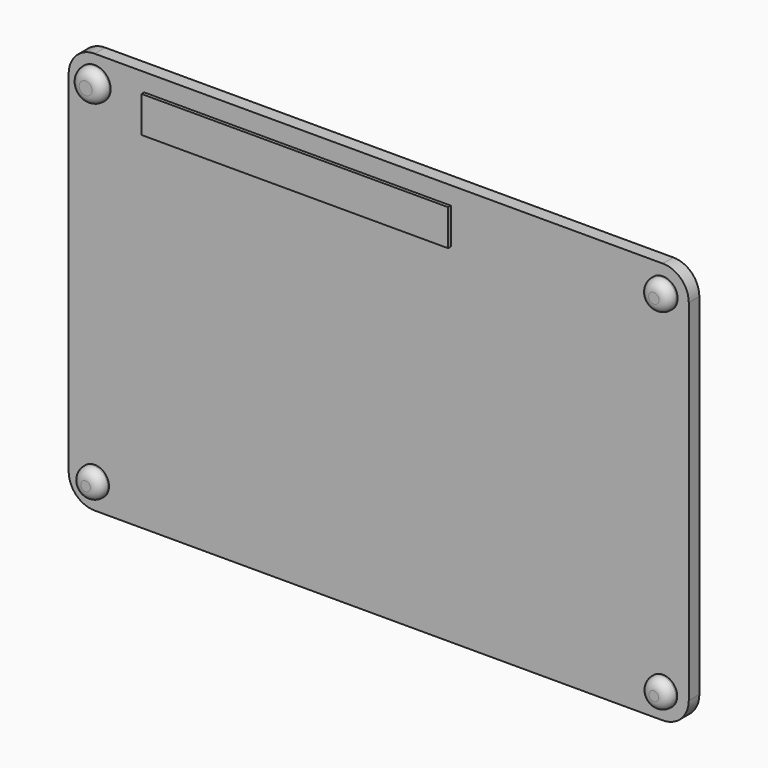
from build123d import *

# Parameters (mm, degrees)
F0_W     = 62.646739
F0_H     = 40.633425
F6_DEPTH = 1.33248
F1_R     = 2.621544
F2_R     = 1.49006
F2_R_2   = 1.453301
F2_R_3   = 1.619057
F2_R_4   = 1.451478
F3_DEPTH = 1.133365
F4_R     = 0.966379
F5_W     = 30.972634
F5_H     = 3.651396
F7_DEPTH = 0.337802


with BuildPart() as f6:
    # F0 (on Front) → F6 (new body)
    with BuildSketch(Plane.XZ):
        with Locations((-31.323369, 41.469335)):
            Rectangle(F0_W, F0_H)
    extrude(amount=F6_DEPTH)

    # F1
    f1_edges = [f6.edges().sort_by_distance(p)[0] for p in [
        (-62.646739, -0.66624, 21.152623),
        (-62.646739, -0.66624, 61.786048),
        (0, -0.66624, 61.786048),
        (0, -0.66624, 21.152623),
    ]]
    fillet(f1_edges, radius=F1_R)

    # F2 (on face) → F3 (join)
    with BuildSketch(Plane.XZ.offset(1.33248)):
        with Locations((-2.621544, 59.164504)):
            Circle(F2_R)
        with Locations((-60.025195, 23.774167)):
            Circle(F2_R_2)
        with Locations((-60.025195, 59.164504)):
            Circle(F2_R_3)
        with Locations((-2.621544, 23.774167)):
            Circle(F2_R_4)
    extrude(amount=F3_DEPTH)

    # F4
    f4_edges = [f6.edges().sort_by_distance(p)[0] for p in [
        (-4.073022, -2.465844, 23.774167),
        (-4.111604, -2.465844, 59.164504),
        (-61.478496, -2.465844, 23.774167),
        (-61.644252, -2.465844, 59.164504),
    ]]
    fillet(f4_edges, radius=F4_R)

    # F5 (on face) → F7 (join)
    with BuildSketch(Plane.XZ.offset(1.33248)):
        with Locations((-39.53187, 58.145337)):
            Rectangle(F5_W, F5_H)
    extrude(amount=F7_DEPTH)


solid = f6.part
